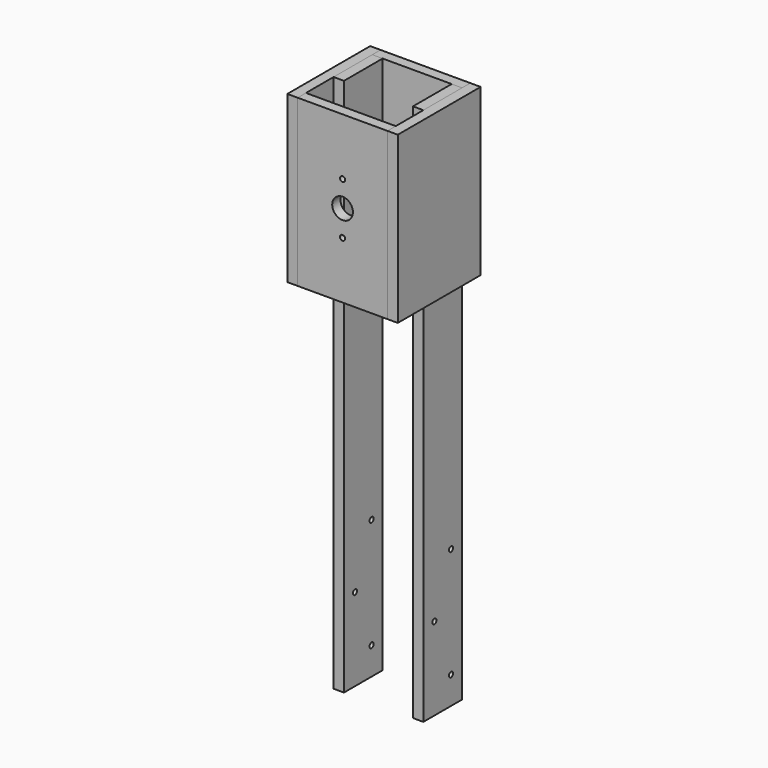
from build123d import *

# Parameters (mm, degrees)
F0_W      = 19.05
F0_H      = 190.5
F1_DEPTH  = 304.8
F2_W      = 165.1
F2_H      = 19.05
F3_DEPTH  = 304.8
F4_R      = 4.7625
F4_R_2    = 19.05
F5_DEPTH  = 25.4
F6_R      = 4.7625
F6_R_2    = 19.05
F7_DEPTH  = 25.4
F8_W      = 19.05
F8_H      = 88.9
F9_DEPTH  = 990.6
F10_R     = 4.7625
F11_DEPTH = 25.4
F12_R     = 4.7625
F13_DEPTH = 25.4


with BuildPart() as f1:
    # F0 (on Top) → F1 (new body)
    with BuildSketch(Plane.XY):
        with Locations((92.075, 0)):
            Rectangle(F0_W, F0_H)
        with Locations((-92.075, 0)):
            Rectangle(F0_W, F0_H)
    extrude(amount=F1_DEPTH)


with BuildPart() as f3:
    # F2 (on Top) → F3 (new body)
    with BuildSketch(Plane.XY):
        with Locations((0, -85.725)):
            Rectangle(F2_W, F2_H)
        with Locations((0, 85.725)):
            Rectangle(F2_W, F2_H)
    extrude(amount=F3_DEPTH)

    # F4 (on face) → F5 (cut)
    with BuildSketch(Plane(origin=(0, 95.25, 0), x_dir=(-1, 0, 0), z_dir=(0, 1, 0))):
        with Locations((0, 200.025)):
            Circle(F4_R)
        with Locations((0, 152.4)):
            Circle(F4_R_2)
        with Locations((0, 104.775)):
            Circle(F4_R)
    extrude(amount=-F5_DEPTH, mode=Mode.SUBTRACT)

    # F6 (on face) → F7 (cut)
    with BuildSketch(Plane.XZ.offset(95.25)):
        with Locations((0, 104.775)):
            Circle(F6_R)
        with Locations((0, 152.4)):
            Circle(F6_R_2)
        with Locations((0, 200.025)):
            Circle(F6_R)
    extrude(amount=-F7_DEPTH, mode=Mode.SUBTRACT)


with BuildPart() as f9:
    # F8 (on face) → F9 (new body)
    with BuildSketch(Plane.XY.offset(304.8)):
        with Locations((-73.025, 31.75)):
            Rectangle(F8_W, F8_H)
        with Locations((73.025, 31.75)):
            Rectangle(F8_W, F8_H)
    extrude(amount=-F9_DEPTH)

    # F10 (on face) → F11 (cut)
    with BuildSketch(Plane.YZ.offset(82.55)):
        with Locations((50.8, -635)):
            Circle(F10_R)
        with Locations((12.7, -533.4)):
            Circle(F10_R)
        with Locations((50.8, -431.8)):
            Circle(F10_R)
    extrude(amount=-F11_DEPTH, mode=Mode.SUBTRACT)

    # F12 (on face) → F13 (cut)
    with BuildSketch(Plane(origin=(-82.55, 0, 0), x_dir=(0, -1, 0), z_dir=(-1, 0, 0))):
        with Locations((-50.8, -431.8)):
            Circle(F12_R)
        with Locations((-50.8, -635)):
            Circle(F12_R)
        with Locations((-12.7, -533.4)):
            Circle(F12_R)
    extrude(amount=-F13_DEPTH, mode=Mode.SUBTRACT)


solid = Compound([f1.part, f3.part, f9.part])
